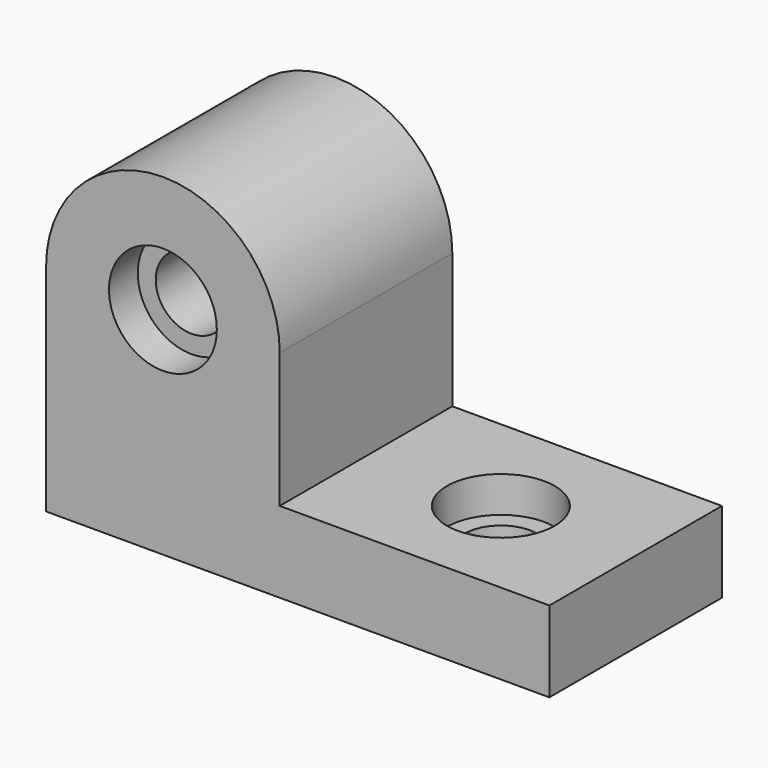
from build123d import *

# Parameters (mm, degrees)
F1_DEPTH  = 76.2
F3_DEPTH  = 76.2
F4_R      = 19.05
F5_DEPTH  = 12.7
F6_R      = 12.7
F7_DEPTH  = 63.5
F8_R      = 19.05
F9_DEPTH  = 12.7
F10_R     = 12.7
F11_DEPTH = 15.875


with BuildPart() as f1:
    # F0 (on Front) → F1 (new body)
    with BuildSketch(Plane.XZ):
        Polygon((0, 155.575), (0, 0), (177.8, 0), (177.8, 28.575), (82.55, 28.575), (82.55, 155.575), align=None)
    extrude(amount=F1_DEPTH)

    # F2 (on face) → F3 (cut, through all)
    with BuildSketch(Plane.XZ.offset(76.2)):
        with BuildLine():
            ThreePointArc((0, 76.2), (41.275, 117.475), (82.55, 76.2))
            Line((82.55, 76.2), (82.55, 155.575))
            Line((82.55, 155.575), (0, 155.575))
            Line((0, 155.575), (0, 76.2))
        make_face()
    extrude(amount=-F3_DEPTH, mode=Mode.SUBTRACT)

    # F4 (on face) → F5 (cut)
    with BuildSketch(Plane.XZ.offset(76.2)):
        with Locations((41.275, 76.2)):
            Circle(F4_R)
    extrude(amount=-F5_DEPTH, mode=Mode.SUBTRACT)

    # F6 (on face) → F7 (cut, through all)
    with BuildSketch(Plane.XZ.offset(63.5)):
        with Locations((41.275, 76.2)):
            Circle(F6_R)
    extrude(amount=-F7_DEPTH, mode=Mode.SUBTRACT)

    # F8 (on face) → F9 (cut)
    with BuildSketch(Plane.XY.offset(28.575)):
        with Locations((130.175, -38.1)):
            Circle(F8_R)
    extrude(amount=-F9_DEPTH, mode=Mode.SUBTRACT)

    # F10 (on face) → F11 (cut, through all)
    with BuildSketch(Plane.XY.offset(15.875)):
        with Locations((130.175, -38.1)):
            Circle(F10_R)
    extrude(amount=-F11_DEPTH, mode=Mode.SUBTRACT)


solid = f1.part
